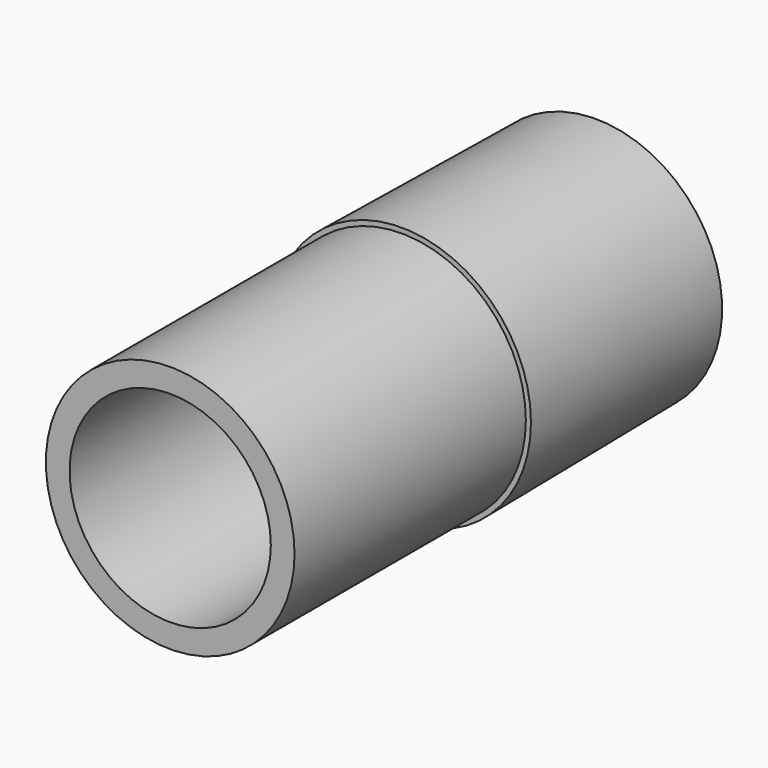
from build123d import *

# Parameters (mm, degrees)
CYLINDER005_R     = 8.7
CYLINDER005_DEPTH = 40
CYLINDER003_R     = 8.7
CYLINDER003_DEPTH = 40
CYLINDER007_R     = 10.75
CYLINDER007_DEPTH = 40


with BuildPart() as outletextension:
    # Cylinder005 → Cylinder005 (new body)
    with BuildSketch(Plane(origin=(20, 65.3, 13.5), x_dir=(1, 0, 0), z_dir=(0, -1, 0))):
        Circle(CYLINDER005_R)
    extrude(amount=CYLINDER005_DEPTH)


with BuildPart() as inside:
    # Cylinder003 → Cylinder003 (new body)
    with BuildSketch(Plane(origin=(20, 36.3, 13.5), x_dir=(1, 0, 0), z_dir=(0, -1, 0))):
        Circle(CYLINDER003_R)
    extrude(amount=CYLINDER003_DEPTH)

    # Fusion001: union OutletExtension
    add(outletextension.part)


with BuildPart() as housingoutlet:
    # Cylinder007 → Cylinder007 (new body)
    with BuildSketch(Plane(origin=(20, 59.3, 13.5), x_dir=(1, 0, 0), z_dir=(0, -1, 0))):
        Circle(CYLINDER007_R)
    extrude(amount=CYLINDER007_DEPTH)


with BuildPart() as bloweroutletadapter:
    # Cone001 → Cone001 (revolve)
    with BuildSketch(Plane(origin=(20, 65.3, 13.5), x_dir=(-1, 0, 0), z_dir=(0, 0, 1))):
        Polygon((0, 0), (10.92, 0), (11.19, 21), (0, 21), align=None)
    revolve(axis=Axis((20, 65.3, 13.5), (0, -1, 0)))

    # Fusion: union HousingOutlet
    add(housingoutlet.part)

    # Cut: cut inside
    add(inside.part, mode=Mode.SUBTRACT)


solid = bloweroutletadapter.part
